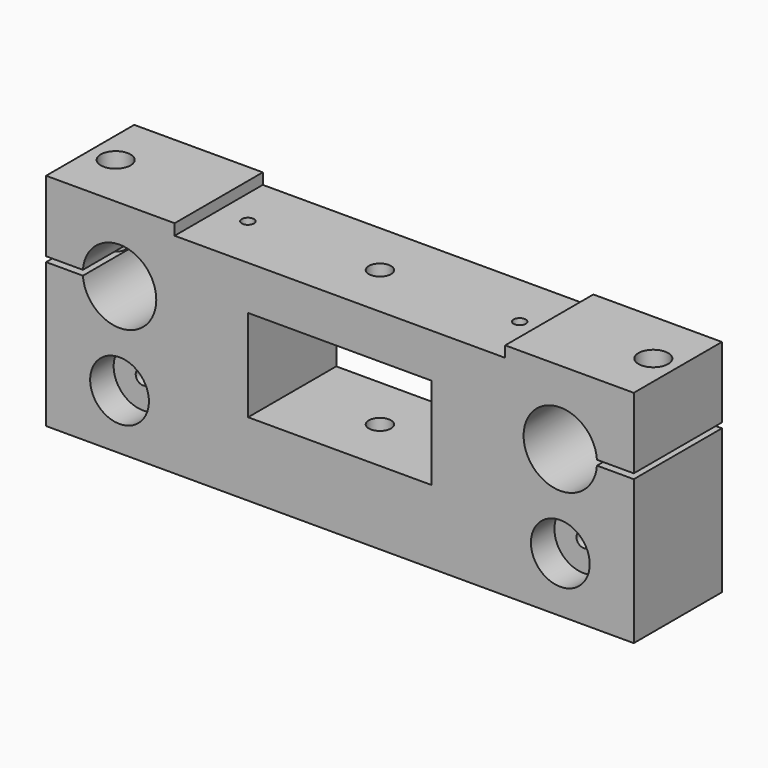
from build123d import *

# Parameters (mm, degrees)
F0_R      = 8
F0_W      = 50
F0_H      = 25
F1_DEPTH  = 30
F3_DEPTH  = 27
F4_R      = 2.55
F5_DEPTH  = 60.001
F4_R_2    = 4.05
F6_DEPTH  = 10
F8_R      = 4.05
F9_DEPTH  = 8
F8_R_2    = 3.025
F10_DEPTH = 50
F8_W      = 90
F8_H      = 31.7965019494
F11_DEPTH = 3
F12_D     = 3.3
F12_DEPTH = 18
F12_TIP   = 0.9914200214
F0_R_2    = 2
F13_DEPTH = 4
F14_DEPTH = 22
F15_DEPTH = 22
F16_DEPTH = 4


with BuildPart() as f1:
    # F0 (on Front) → F1 (new body)
    with BuildSketch(Plane.XZ):
        with BuildLine():
            Line((-20, 39.3), (-20, 0))
            Line((-20, 0), (140, 0))
            Line((140, 0), (140, 39.3))
            Line((140, 39.3), (129.9754699137, 39.3))
            ThreePointArc((129.9754699137, 39.3), (110, 40), (129.9754699137, 40.7))
            Line((129.9754699137, 40.7), (140, 40.7))
            Line((140, 40.7), (140, 60))
            Line((140, 60), (-20, 60))
            Line((-20, 60), (-20, 40.7))
            Line((-20, 40.7), (-9.9754699137, 40.7))
            ThreePointArc((-9.9754699137, 40.7), (0.3502148359, 49.9938655969), (10, 40))
            ThreePointArc((10, 40), (0.3502148359, 30.0061344031), (-9.9754699137, 39.3))
            Line((-9.9754699137, 39.3), (-20, 39.3))
        make_face()
        with Locations((0, 15)):
            Circle(F0_R, mode=Mode.SUBTRACT)
        with Locations((120, 15)):
            Circle(F0_R, mode=Mode.SUBTRACT)
        with Locations((60, 32.5)):
            Rectangle(F0_W, F0_H, mode=Mode.SUBTRACT)
    extrude(amount=F1_DEPTH)

    # F2 (on Top) → F3 (cut)
    with BuildSketch(Plane.XY):
        Polygon((129.1461869532, -12.8157012552), (129.1461869532, -17.2657012552), (133, -19.4907012552), (136.8538130468, -17.2657012552), (136.8538130468, -12.8157012552), (133, -10.5907012552), align=None)
        Polygon((-16.8538130468, -12.8157012552), (-16.8538130468, -17.2657012552), (-13, -19.4907012552), (-9.1461869532, -17.2657012552), (-9.1461869532, -12.8157012552), (-13, -10.5907012552), align=None)
    extrude(amount=F3_DEPTH, mode=Mode.SUBTRACT)

    # F4 (on Top) → F5 (cut, through all)
    with BuildSketch(Plane.XY):
        with Locations((132.991835475, -15.0365363806)):
            Circle(F4_R)
        with Locations((-13.0001418293, -15.0407049805)):
            Circle(F4_R)
    extrude(amount=F5_DEPTH, mode=Mode.SUBTRACT)

    # F4 (on Top) → F6 (cut)
    with BuildSketch(Plane.XY):
        with Locations((-13.0001418293, -15.0407049805)):
            Circle(F4_R_2)
        with Locations((-13.0001418293, -15.0407049805)):
            Circle(F4_R, mode=Mode.SUBTRACT)
        with Locations((132.991835475, -15.0365363806)):
            Circle(F4_R_2)
        with Locations((132.991835475, -15.0365363806)):
            Circle(F4_R, mode=Mode.SUBTRACT)
    extrude(amount=-F6_DEPTH, mode=Mode.SUBTRACT)

    # F8 (on offset) → F9 (cut)
    with BuildSketch(Plane.XY.offset(60)):
        with Locations((-12.9998153025, -15.0684969688)):
            Circle(F8_R)
        with Locations((133.3798532359, -15.0684969688)):
            Circle(F8_R)
    extrude(amount=-F9_DEPTH, mode=Mode.SUBTRACT)

    # F8 (on offset) → F10 (cut)
    with BuildSketch(Plane.XY.offset(60)):
        with Locations((58.9467886905, -15.0684969688)):
            Circle(F8_R_2)
    extrude(amount=-F10_DEPTH, mode=Mode.SUBTRACT)

    # F8 (on offset) → F11 (cut)
    with BuildSketch(Plane.XY.offset(60)):
        with Locations((60, -15.8982509747)):
            Rectangle(F8_W, F8_H)
        with Locations((58.9467886905, -15.0684969688)):
            Circle(F8_R_2, mode=Mode.SUBTRACT)
    extrude(amount=-F11_DEPTH, mode=Mode.SUBTRACT)

    # F12
    with Locations(Plane.XY.offset(60)):
        with Locations((23, -15.0684969688), (97, -15.0684969688)):
            Hole(F12_D / 2, depth=F12_DEPTH)
            with Locations((0, 0, -(F12_DEPTH + F12_TIP / 2))):  # 118° drill point
                Cone(0, F12_D / 2, F12_TIP, mode=Mode.SUBTRACT)

    # F0 (on Front) → F13 (cut)
    with BuildSketch(Plane.XZ):
        Polygon((-0.0046422602, 19.0414518843), (-3.5023211301, 17.0167056269), (-3.4976788699, 12.9752537426), (0.0046422602, 10.9585481157), (3.5023211301, 12.9832943731), (3.4976788699, 17.0247462574), align=None)
        with Locations((0, 15)):
            Circle(F0_R_2, mode=Mode.SUBTRACT)
        Polygon((123.4926623645, 17.0333821434), (119.9853705905, 19.0414254062), (116.492708226, 17.0080432628), (116.5073376355, 12.9666178566), (120.0146294095, 10.9585745938), (123.507291774, 12.9919567372), align=None)
        with Locations((120, 15)):
            Circle(F0_R_2, mode=Mode.SUBTRACT)
    extrude(amount=F13_DEPTH, mode=Mode.SUBTRACT)

    # F0 (on Front) → F14 (join)
    with BuildSketch(Plane.XZ):
        with Locations((120, 15)):
            Circle(F0_R)
        Polygon((116.492708226, 17.0080432628), (119.9853705905, 19.0414254062), (123.4926623645, 17.0333821434), (123.507291774, 12.9919567372), (120.0146294095, 10.9585745938), (116.5073376355, 12.9666178566), align=None, mode=Mode.SUBTRACT)
        with Locations((0, 15)):
            Circle(F0_R)
        Polygon((-3.4976788699, 12.9752537426), (-3.5023211301, 17.0167056269), (-0.0046422602, 19.0414518843), (3.4976788699, 17.0247462574), (3.5023211301, 12.9832943731), (0.0046422602, 10.9585481157), align=None, mode=Mode.SUBTRACT)
    extrude(amount=F14_DEPTH)

    # F0 (on Front) → F15 (join)
    with BuildSketch(Plane.XZ):
        Polygon((123.4926623645, 17.0333821434), (119.9853705905, 19.0414254062), (116.492708226, 17.0080432628), (116.5073376355, 12.9666178566), (120.0146294095, 10.9585745938), (123.507291774, 12.9919567372), align=None)
        with Locations((120, 15)):
            Circle(F0_R_2, mode=Mode.SUBTRACT)
        Polygon((-0.0046422602, 19.0414518843), (-3.5023211301, 17.0167056269), (-3.4976788699, 12.9752537426), (0.0046422602, 10.9585481157), (3.5023211301, 12.9832943731), (3.4976788699, 17.0247462574), align=None)
        with Locations((0, 15)):
            Circle(F0_R_2, mode=Mode.SUBTRACT)
    extrude(amount=F15_DEPTH)

    # F0 (on Front) → F16 (cut)
    with BuildSketch(Plane.XZ):
        Polygon((-0.0046422602, 19.0414518843), (-3.5023211301, 17.0167056269), (-3.4976788699, 12.9752537426), (0.0046422602, 10.9585481157), (3.5023211301, 12.9832943731), (3.4976788699, 17.0247462574), align=None)
        with Locations((0, 15)):
            Circle(F0_R_2, mode=Mode.SUBTRACT)
        Polygon((123.4926623645, 17.0333821434), (119.9853705905, 19.0414254062), (116.492708226, 17.0080432628), (116.5073376355, 12.9666178566), (120.0146294095, 10.9585745938), (123.507291774, 12.9919567372), align=None)
        with Locations((120, 15)):
            Circle(F0_R_2, mode=Mode.SUBTRACT)
    extrude(amount=F16_DEPTH, mode=Mode.SUBTRACT)


solid = f1.part
